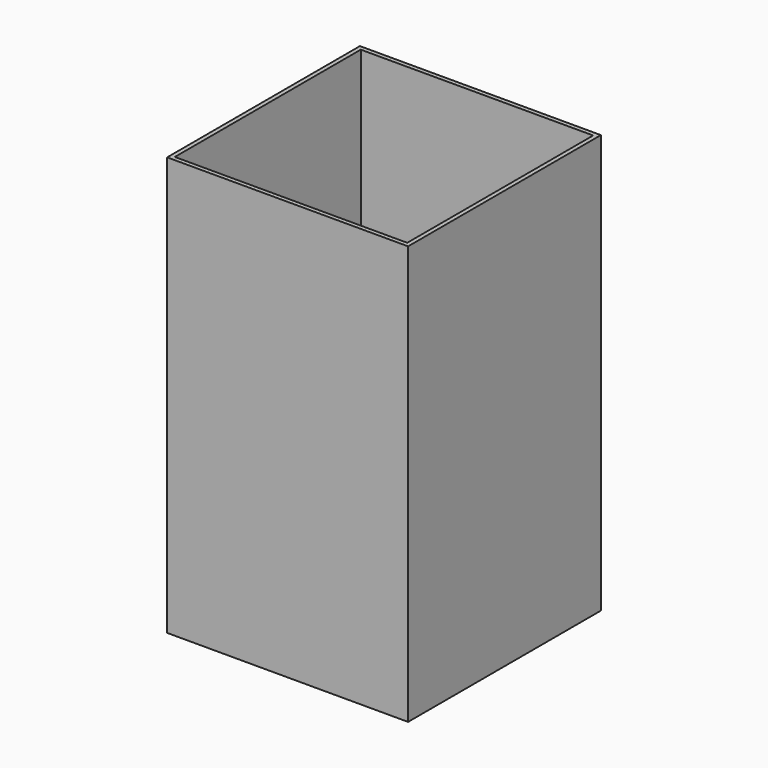
from build123d import *

# Parameters (mm, degrees)
F0_W     = 141
F0_H     = 141
F0_W_2   = 136
F0_H_2   = 136
F1_DEPTH = 5
F2_DEPTH = 245
F3_R     = 22.5
F4_DEPTH = 25


with BuildPart() as f1:
    # F0 (on Top) → F1 (new body)
    with BuildSketch(Plane.XY):
        Rectangle(F0_W, F0_H)
        Rectangle(F0_W_2, F0_H_2, mode=Mode.SUBTRACT)
        Rectangle(F0_W_2, F0_H_2)
    extrude(amount=F1_DEPTH)

    # F0 (on Top) → F2 (join)
    with BuildSketch(Plane.XY):
        Rectangle(F0_W, F0_H)
        Rectangle(F0_W_2, F0_H_2, mode=Mode.SUBTRACT)
    extrude(amount=F2_DEPTH)

    # F3 (on face) → F4 (cut)
    with BuildSketch(Plane.XY.offset(5)):
        Circle(F3_R)
    extrude(amount=-F4_DEPTH, mode=Mode.SUBTRACT)


solid = f1.part
